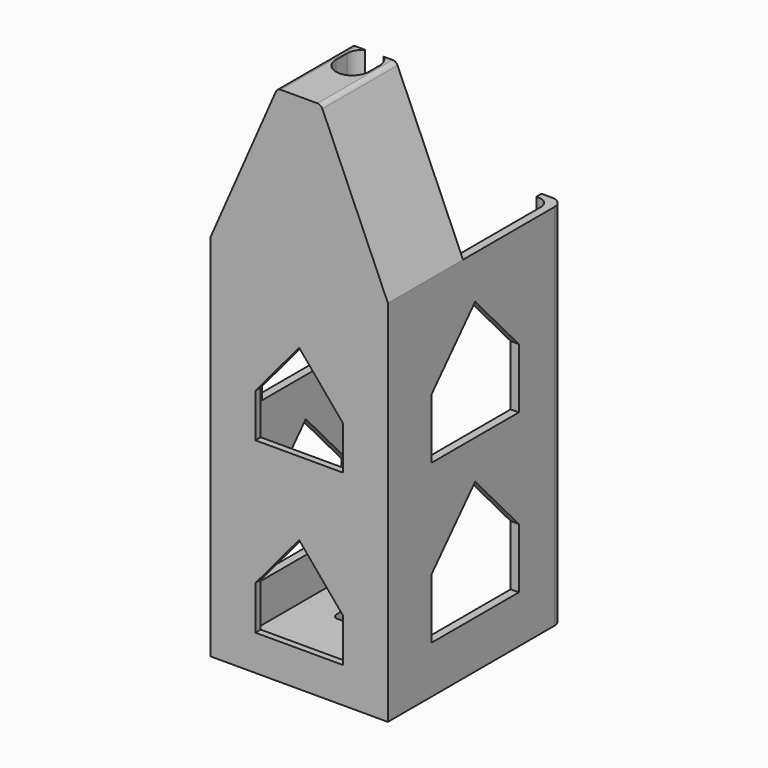
from build123d import *

# Parameters (mm, degrees)
PAD_DEPTH              = 66
SKETCH001_W            = 32.5
SKETCH001_H            = 40.15
PAD001_DEPTH           = 1.5
PAD002_DEPTH           = 1.2
PAD003_DEPTH           = 16
SKETCH011_W            = 16.471436
SKETCH011_H            = 30.415474
POCKET_DEPTH           = 5
POCKET001_DEPTH        = 13
POCKET002_DEPTH        = 5
LINEARPATTERN_COUNT    = 2
LINEARPATTERN_PITCH    = 31
POCKET003_DEPTH        = 32.501
LINEARPATTERN001_COUNT = 2
LINEARPATTERN001_PITCH = 29
SKETCH017_W            = 17
SKETCH017_H            = 34.922093
POCKET004_DEPTH        = 5
FILLET_R               = 3
FILLET001_R            = 1
FILLET002_R            = 2
FILLET003_R            = 2
FILLET004_R            = 1
FILLET005_R            = 1


with BuildPart() as part:
    # Sketch → Pad (new body)
    with BuildSketch(Plane.XY):
        Polygon((14.75, 37.75), (14.75, 0), (-14.75, 0), (-14.75, 37.75), (-12.25, 37.75), (-12.25, 38.95), (-16.25, 38.95), (-16.25, -1.2), (16.25, -1.2), (16.25, 38.95), (12.25, 38.95), (12.25, 37.75), align=None)
    extrude(amount=PAD_DEPTH)

    # Sketch001 (on Face13 of Pad) → Pad001 (join)
    with BuildSketch(Plane(origin=(0, 0, 0), x_dir=(1, 0, 0), z_dir=(0, 0, -1))):
        with Locations((0, -18.875)):
            Rectangle(SKETCH001_W, SKETCH001_H)
    extrude(amount=PAD001_DEPTH)

    # Sketch002 (on Face13 of Pad001) → Pad002 (join)
    with BuildSketch(Plane.XZ.offset(1.2)):
        Polygon((-16.25, 66), (-4, 94), (4, 94), (16.25, 66), align=None)
    extrude(amount=-PAD002_DEPTH)

    # Sketch007 (on Face8 of Pad002) → Pad003 (join)
    with BuildSketch(Plane(origin=(0, 0, 0), x_dir=(-1, 0, 0), z_dir=(0, 1, 0))):
        Polygon((-16.25, 66), (-15, 66), (-3.5, 88), (3.5, 88), (15, 66), (16.25, 66), (4, 94), (-4, 94), align=None)
    extrude(amount=PAD003_DEPTH)

    # Sketch011 (on Face24 of Pad003) → Pocket (cut)
    with BuildSketch(Plane(origin=(37.87541, 0, 16.570492), x_dir=(0, 1, 0), z_dir=(0.916157, 0, 0.400819))):
        with Locations((0, -31.207737)):
            Rectangle(SKETCH011_W, SKETCH011_H)
    extrude(amount=-POCKET_DEPTH, mode=Mode.SUBTRACT)

    # Sketch016 (on Face27 of Pocket) → Pocket001 (cut)
    with BuildSketch(Plane.XY.offset(94)):
        with BuildLine():
            ThreePointArc((3, 13.5), (0, 16.5), (-3, 13.5))
            Line((-3, 13.5), (-3, 11))
            ThreePointArc((-3, 11), (0, 8), (3, 11))
            Line((3, 13.5), (3, 11))
        make_face()
    extrude(amount=-POCKET001_DEPTH, mode=Mode.SUBTRACT)

    # Sketch014 (on Face23 of Pocket001) → Pocket002 (cut)
    with BuildSketch(Plane.XZ.offset(1.2)):
        Polygon((0, 22.534029), (-8, 13), (-8, 5), (8, 5), (8, 13), align=None)
    pocket002 = extrude(amount=-POCKET002_DEPTH, mode=Mode.SUBTRACT)

    # LinearPattern: Pocket002 ×2
    with Locations(*[(0, 0, i * LINEARPATTERN_PITCH) for i in range(1, LINEARPATTERN_COUNT)]):
        add(pocket002, mode=Mode.SUBTRACT)

    # Sketch015 (on Face23 of LinearPattern) → Pocket003 (cut, through all)
    with BuildSketch(Plane.YZ.offset(16.25)):
        Polygon((18.770192, 29.113804), (8.770192, 18.200719), (8.770192, 7.200719), (28.770192, 7.200719), (28.770192, 18.200719), align=None)
    pocket003 = extrude(amount=-POCKET003_DEPTH, mode=Mode.SUBTRACT)

    # LinearPattern001: Pocket003 ×2
    with Locations(*[(0, 0, i * LINEARPATTERN001_PITCH) for i in range(1, LINEARPATTERN001_COUNT)]):
        add(pocket003, mode=Mode.SUBTRACT)

    # Sketch017 (on Face50 of LinearPattern001) → Pocket004 (cut)
    with BuildSketch(Plane(origin=(0, 0, -1.5), x_dir=(1, 0, 0), z_dir=(0, 0, -1))):
        with Locations((0, -34.411046)):
            Rectangle(SKETCH017_W, SKETCH017_H)
    extrude(amount=-POCKET004_DEPTH, mode=Mode.SUBTRACT)

    # Fillet
    fillet_edges = [part.edges().sort_by_distance(p)[0] for p in [
        (-8.5, 38.95, -0.75),
        (8.5, 38.95, -0.75),
    ]]
    fillet(fillet_edges, radius=FILLET_R)

    # Fillet001
    fillet001_edges = [part.edges().sort_by_distance(p)[0] for p in [
        (-8.5, 16.95, -0.75),
    ]]
    fillet(fillet001_edges, radius=FILLET001_R)

    # Fillet002
    fillet002_edges = [part.edges().sort_by_distance(p)[0] for p in [
        (-16.25, 38.95, 33),
        (16.25, 38.95, 33),
    ]]
    fillet(fillet002_edges, radius=FILLET002_R)

    # Fillet003
    fillet003_edges = [part.edges().sort_by_distance(p)[0] for p in [
        (-14.75, 37.75, 33),
        (14.75, 37.75, 33),
    ]]
    fillet(fillet003_edges, radius=FILLET003_R)

    # Fillet004
    fillet004_edges = [part.edges().sort_by_distance(p)[0] for p in [
        (4, 8, 94),
    ]]
    fillet(fillet004_edges, radius=FILLET004_R)

    # Fillet005
    fillet005_edges = [part.edges().sort_by_distance(p)[0] for p in [
        (-4, 8, 94),
    ]]
    fillet(fillet005_edges, radius=FILLET005_R)


solid = part.part
